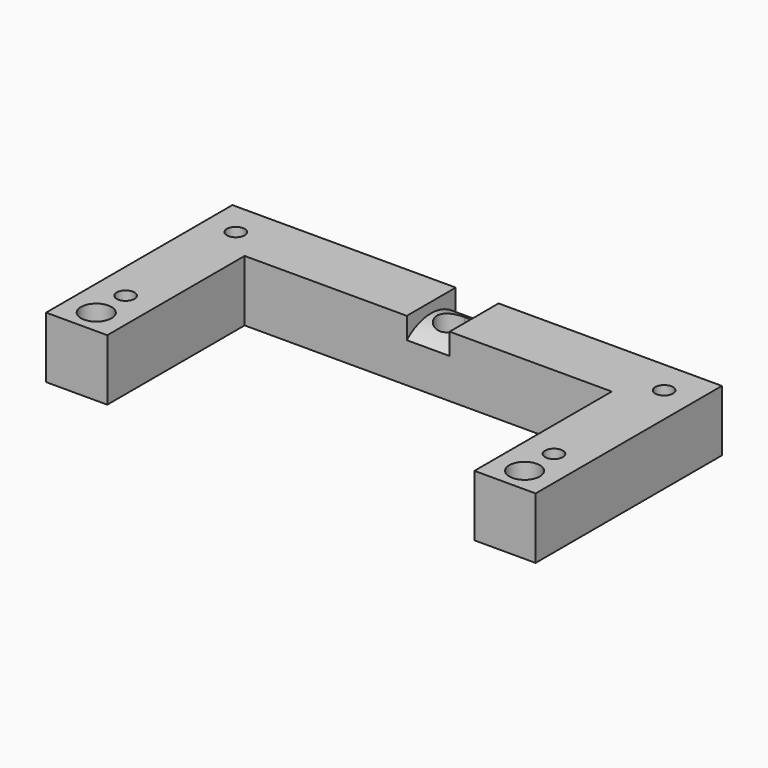
from build123d import *

# Parameters (mm, degrees)
PAD003_DEPTH  = 7
SKETCH002_R   = 5
PAD002_DEPTH  = 50
SKETCH001_R   = 2.9
SKETCH001_R_2 = 2
PAD001_DEPTH  = 100
PAD_DEPTH     = 20


with BuildPart() as clamp_slot:
    # Sketch003 → Pad003 (new body)
    with BuildSketch(Plane.YZ):
        with BuildLine():
            ThreePointArc((78.5, 10), (66, 16.708438), (53.5, 10))
            Line((53.5, 10), (53.5, 25))
            Line((53.5, 25), (78.5, 25))
            Line((78.5, 25), (78.5, 10))
        make_face()
    extrude(amount=PAD003_DEPTH)


with BuildPart() as screw_recesses:
    # Sketch002 → Pad002 (new body)
    with BuildSketch(Plane.XY.offset(7)):
        with Locations((0, 66)):
            Circle(SKETCH002_R)
        with Locations((70, 8)):
            Circle(SKETCH002_R)
    extrude(amount=PAD002_DEPTH)


with BuildPart() as screw_holes:
    # Sketch001 → Pad001 (new body)
    with BuildSketch(Plane.XY):
        with Locations((70, 65)):
            Circle(SKETCH001_R)
        with Locations((70, 20)):
            Circle(SKETCH001_R)
        with Locations((70, 8)):
            Circle(SKETCH001_R_2)
        with Locations((0, 66)):
            Circle(SKETCH001_R_2)
    extrude(amount=PAD001_DEPTH)


with BuildPart() as cut002:
    # Sketch → Pad (new body)
    with BuildSketch(Plane.XY):
        Polygon((0, 76.12), (80, 76.12), (80, 0), (60, 0), (60, 56.12), (0, 56.12), align=None)
    extrude(amount=PAD_DEPTH)

    # Cut: cut Screw Holes
    add(screw_holes.part, mode=Mode.SUBTRACT)

    # Cut001: cut Screw Recesses
    add(screw_recesses.part, mode=Mode.SUBTRACT)

    # Cut002: cut Clamp Slot
    add(clamp_slot.part, mode=Mode.SUBTRACT)


with BuildPart() as fusion:
    # Part__Mirroring: instance of Cut002
    add(cut002.part.mirror(Plane(origin=(0, 0, 0), x_dir=(0, -1, 0), z_dir=(1, 0, 0))))

    # Fusion: union Cut002
    add(cut002.part)


solid = fusion.part
